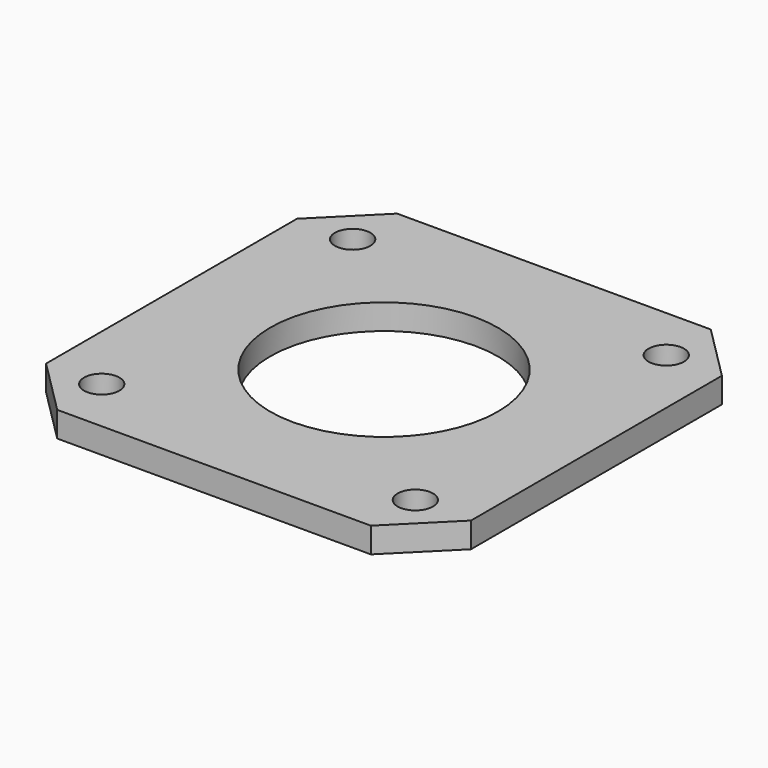
from build123d import *

# Parameters (mm, degrees)
F0_R     = 1.75
F0_R_2   = 11.25
F1_DEPTH = 2.5


with BuildPart() as f1:
    # F0 (on Top) → F1 (new body)
    with BuildSketch(Plane.XY):
        Polygon((-15.5, -21), (15.5, -21), (21, -15.5), (21, 15.5), (15.5, 21), (-15.5, 21), (-21, 15.5), (-21, -15.5), align=None)
        with Locations((-15.5, -15.5)):
            Circle(F0_R, mode=Mode.SUBTRACT)
        with Locations((15.5, -15.5)):
            Circle(F0_R, mode=Mode.SUBTRACT)
        with Locations((-15.5, 15.5)):
            Circle(F0_R, mode=Mode.SUBTRACT)
        Circle(F0_R_2, mode=Mode.SUBTRACT)
        with Locations((15.5, 15.5)):
            Circle(F0_R, mode=Mode.SUBTRACT)
    extrude(amount=F1_DEPTH)


solid = f1.part
